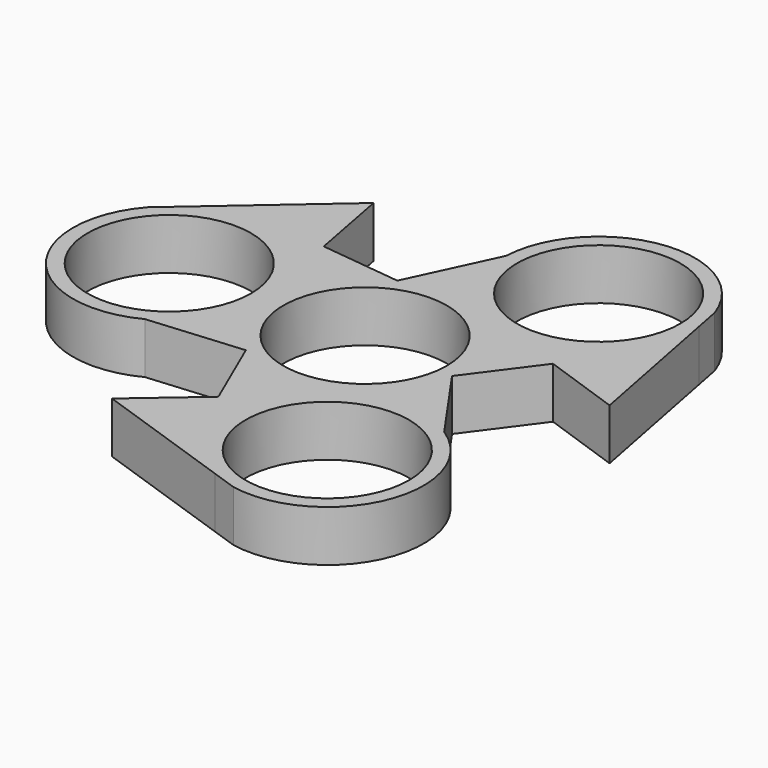
from build123d import *

# Parameters (mm, degrees)
F0_R     = 11.2
F1_DEPTH = 7


with BuildPart() as f1:
    # F0 (on Top) → F1 (new body)
    with BuildSketch(Plane.XY):
        with BuildLine():
            Line((-18.494076, 24.575921), (-34.030022, 11.067116))
            Line((-34.030022, 11.067116), (-36.796098, 8.66196))
            ThreePointArc((-36.796098, 8.66196), (-37.218248, -8.15118), (-20.785373, -11.731756))
            Line((-20.785373, -11.731756), (-7.851329, -10.611156))
            Line((-7.851329, -10.611156), (-3.407524, -20.865929))
            Line((-3.407524, -20.865929), (-12.036334, -28.3043))
            Line((-12.036334, -28.3043), (7.430607, -35.004422))
            Line((7.430607, -35.004422), (10.896572, -36.197336))
            ThreePointArc((10.896572, -36.197336), (25.668253, -28.156358), (20.552685, -12.134783))
            Line((20.552685, -12.134783), (13.115195, -1.493873))
            Line((13.115195, -1.493873), (19.774187, 7.481962))
            Line((19.774187, 7.481962), (30.53041, 3.728379))
            Line((30.53041, 3.728379), (26.599415, 23.937305))
            Line((26.599415, 23.937305), (25.899527, 27.535376))
            ThreePointArc((25.899527, 27.535376), (11.549995, 36.307538), (0.232688, 23.866539))
            Line((0.232688, 23.866539), (-5.263866, 12.105029))
            Line((-5.263866, 12.105029), (-16.366663, 13.383967))
            Line((-16.366663, 13.383967), (-18.494076, 24.575921))
        make_face()
        with Locations((13.417827, -23.240358)):
            Circle(F0_R, mode=Mode.SUBTRACT)
        with Locations((-26.835654, 0)):
            Circle(F0_R, mode=Mode.SUBTRACT)
        Circle(F0_R, mode=Mode.SUBTRACT)
        with Locations((13.417827, 23.240358)):
            Circle(F0_R, mode=Mode.SUBTRACT)
    extrude(amount=F1_DEPTH)


solid = f1.part
